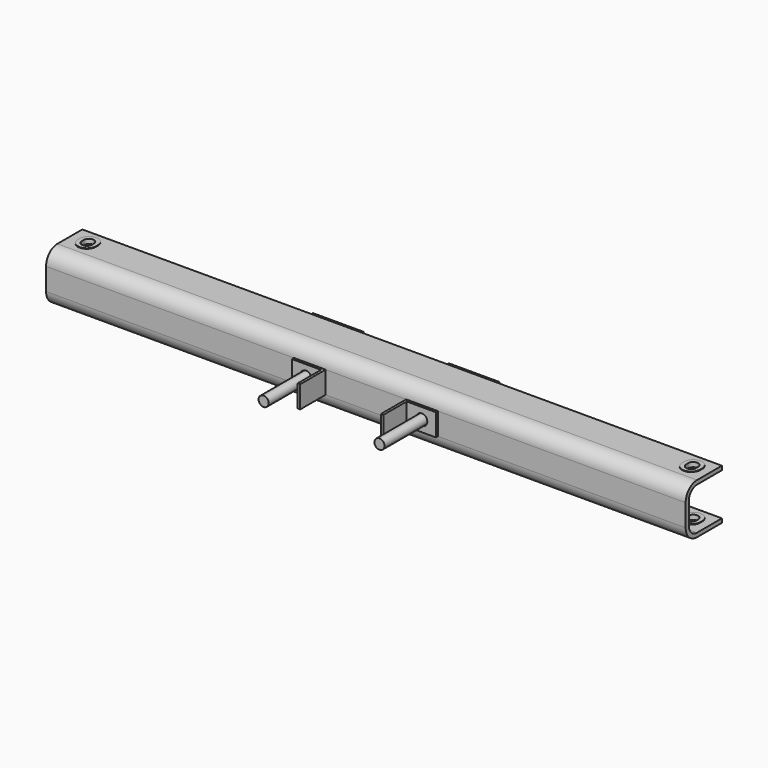
from build123d import *

# Parameters (mm, degrees)
F1_DEPTH      = 635
F3_DEPTH      = 22
F4_W          = 100
F4_H          = 92
F5_DEPTH      = 10
F6_R          = 11
F7_DEPTH      = 8
F7_DEPTH_BACK = 63.001
F9_DEPTH      = 50.001
F9_DEPTH_BACK = 50.001
F11_DEPTH     = 1
F13_DEPTH     = 1
F14_R         = 10
F15_DEPTH     = 200


with BuildPart() as f1:
    # F0 (on Right) → F1 (new body, symmetric)
    with BuildSketch(Plane.YZ):
        with BuildLine():
            Line((90, 42), (90, 50))
            Line((90, 50), (28, 50))
            ThreePointArc((28, 50), (8.2010101268, 41.7989898732), (0, 22))
            Line((0, 22), (0, -22))
            ThreePointArc((0, -22), (8.2010101268, -41.7989898732), (28, -50))
            Line((28, -50), (90, -50))
            Line((90, -50), (90, -42))
            Line((90, -42), (28, -42))
            ThreePointArc((28, -42), (13.8578643763, -36.1421356237), (8, -22))
            Line((8, -22), (8, 22))
            ThreePointArc((8, 22), (13.8578643763, 36.1421356237), (28, 42))
            Line((28, 42), (90, 42))
        make_face()
    extrude(amount=F1_DEPTH, both=True)

    # F2 (on Top) → F3 (join, symmetric)
    with BuildSketch(Plane.XY):
        Polygon((-80, 0), (-143, 0), (-143, -5), (-85, -5), (-85, -63), (-80, -63), align=None)
        Polygon((80, -63), (85, -63), (85, -5), (143, -5), (143, 0), (80, 0), align=None)
    extrude(amount=F3_DEPTH, both=True)

    # F4 (on face) → F5 (join)
    with BuildSketch(Plane(origin=(0, 90, 0), x_dir=(-1, 0, 0), z_dir=(0, 1, 0))):
        with Locations((-135, 0)):
            Rectangle(F4_W, F4_H)
        with Locations((135, 0)):
            Rectangle(F4_W, F4_H)
    extrude(amount=F5_DEPTH)

    # F6 (on Front) → F7 (cut, two sides)
    with BuildSketch(Plane.XZ) as f7_sk:
        with Locations((-115, 0)):
            Circle(F6_R)
        with Locations((115, 0)):
            Circle(F6_R)
    extrude(amount=-F7_DEPTH, mode=Mode.SUBTRACT)
    extrude(f7_sk.sketch, amount=F7_DEPTH_BACK, mode=Mode.SUBTRACT)

    # F8 (on Top) → F9 (cut, two sides)
    with BuildSketch(Plane.XY) as f9_sk:
        with BuildLine():
            Line((-590, 57.5), (-590, 62.5))
            ThreePointArc((-590, 62.5), (-600, 72.5), (-610, 62.5))
            Line((-610, 62.5), (-610, 57.5))
            ThreePointArc((-610, 57.5), (-600, 47.5), (-590, 57.5))
        make_face()
        with BuildLine():
            ThreePointArc((610, 62.5), (600, 72.5), (590, 62.5))
            Line((590, 62.5), (590, 57.5))
            ThreePointArc((590, 57.5), (600, 47.5), (610, 57.5))
            Line((610, 57.5), (610, 62.5))
        make_face()
    extrude(amount=F9_DEPTH, mode=Mode.SUBTRACT)
    extrude(f9_sk.sketch, amount=-F9_DEPTH_BACK, mode=Mode.SUBTRACT)

    # F10 (on face) → F11 (join)
    with BuildSketch(Plane.XY.offset(50)):
        with BuildLine():
            Line((-582, 57.5), (-582, 62.5))
            ThreePointArc((-582, 62.5), (-600, 80.5), (-618, 62.5))
            Line((-618, 62.5), (-618, 57.5))
            ThreePointArc((-618, 57.5), (-600, 39.5), (-582, 57.5))
        make_face()
        with BuildLine():
            Line((-610, 57.5), (-610, 62.5))
            ThreePointArc((-610, 62.5), (-600, 72.5), (-590, 62.5))
            Line((-590, 62.5), (-590, 57.5))
            ThreePointArc((-590, 57.5), (-600, 47.5), (-610, 57.5))
        make_face(mode=Mode.SUBTRACT)
        with BuildLine():
            Line((618, 57.5), (618, 62.5))
            ThreePointArc((618, 62.5), (600, 80.5), (582, 62.5))
            Line((582, 62.5), (582, 57.5))
            ThreePointArc((582, 57.5), (600, 39.5), (618, 57.5))
        make_face()
        with BuildLine():
            ThreePointArc((610, 57.5), (600, 47.5), (590, 57.5))
            Line((590, 57.5), (590, 62.5))
            ThreePointArc((590, 62.5), (600, 72.5), (610, 62.5))
            Line((610, 62.5), (610, 57.5))
        make_face(mode=Mode.SUBTRACT)
    extrude(amount=F11_DEPTH)

    # F12 (on face) → F13 (join)
    with BuildSketch(Plane.XY.offset(-42)):
        with BuildLine():
            ThreePointArc((-582, 62.5), (-600, 80.5), (-618, 62.5))
            Line((-618, 62.5), (-618, 57.5))
            ThreePointArc((-618, 57.5), (-600, 39.5), (-582, 57.5))
            Line((-582, 57.5), (-582, 62.5))
        make_face()
        with BuildLine():
            Line((-610, 57.5), (-610, 62.5))
            ThreePointArc((-610, 62.5), (-600, 72.5), (-590, 62.5))
            Line((-590, 62.5), (-590, 57.5))
            ThreePointArc((-590, 57.5), (-600, 47.5), (-610, 57.5))
        make_face(mode=Mode.SUBTRACT)
        with BuildLine():
            ThreePointArc((618, 62.5), (600, 80.5), (582, 62.5))
            Line((582, 62.5), (582, 57.5))
            ThreePointArc((582, 57.5), (600, 39.5), (618, 57.5))
            Line((618, 57.5), (618, 62.5))
        make_face()
        with BuildLine():
            ThreePointArc((590, 62.5), (600, 72.5), (610, 62.5))
            Line((610, 62.5), (610, 57.5))
            ThreePointArc((610, 57.5), (600, 47.5), (590, 57.5))
            Line((590, 57.5), (590, 62.5))
        make_face(mode=Mode.SUBTRACT)
    extrude(amount=F13_DEPTH)

    # F14 (on face) → F15 (join)
    with BuildSketch(Plane.XZ.offset(-90)):
        with Locations((-115, 0)):
            Circle(F14_R)
        with Locations((115, 0)):
            Circle(F14_R)
    extrude(amount=F15_DEPTH)


solid = f1.part
